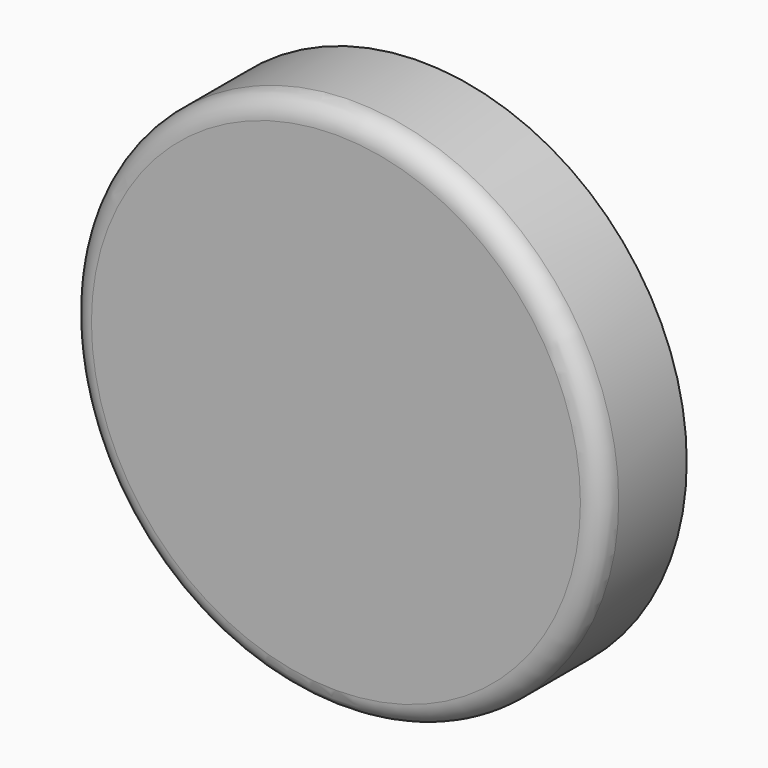
from build123d import *

# Parameters (mm, degrees)
F0_R     = 7.5
F1_DEPTH = 3
F2_R     = 0.6
F3_R     = 4
F4_DEPTH = 2


with BuildPart() as f1:
    # F0 (on Front) → F1 (new body)
    with BuildSketch(Plane.XZ):
        Circle(F0_R)
    extrude(amount=F1_DEPTH)

    # F2
    f2_edges = [f1.edges().sort_by_distance(p)[0] for p in [
        (-7.5, -3, 0),
    ]]
    fillet(f2_edges, radius=F2_R)

    # F3 (on face) → F4 (cut)
    with BuildSketch(Plane(origin=(0, 0, 0), x_dir=(-1, 0, 0), z_dir=(0, 1, 0))):
        Circle(F3_R)
    extrude(amount=-F4_DEPTH, mode=Mode.SUBTRACT)


solid = f1.part
